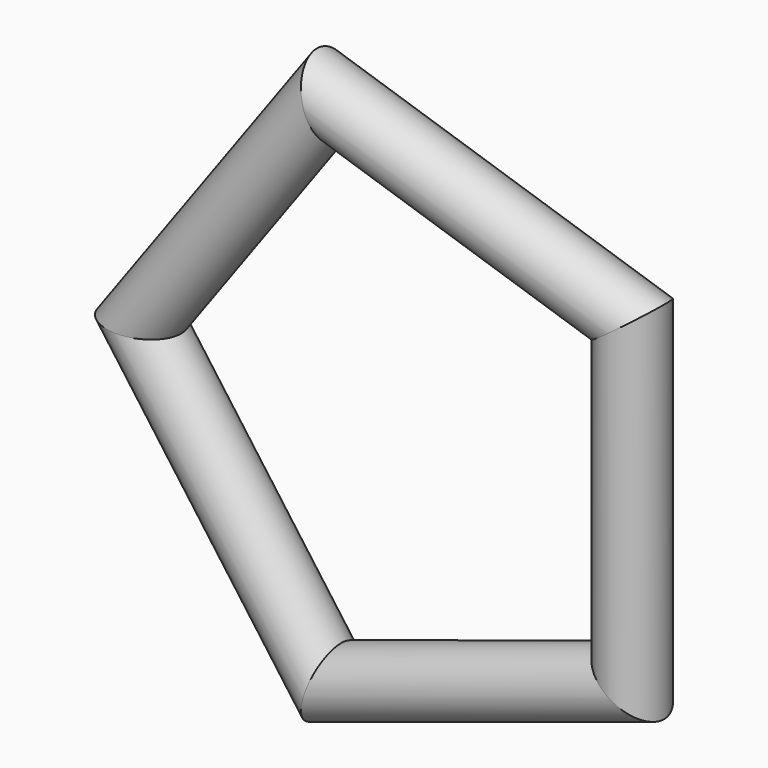
from build123d import *

# Parameters (mm, degrees)
F2_R = 1.27


with BuildPart() as f3:
    # F3: sweep along a path in F1
    with BuildLine(Plane.XZ) as f3_path:
        Line((10.9985226281, 6.35), (10.9985226281, -6.35))
        Line((10.9985226281, -6.35), (-1.0798951289, -10.2745158286))
        Line((-1.0798951289, -10.2745158286), (-8.544767833, 0))
        Line((-8.544767833, 0), (-1.0798951289, 10.2745158286))
        Line((-1.0798951289, 10.2745158286), (10.9985226281, 6.35))
    # F2 (on Top) → F3 (sweep)
    with BuildSketch(Plane.XY):
        with Locations((10.9985226281, 0)):
            Circle(F2_R)
    sweep(path=f3_path.line, transition=Transition.RIGHT)


solid = f3.part
